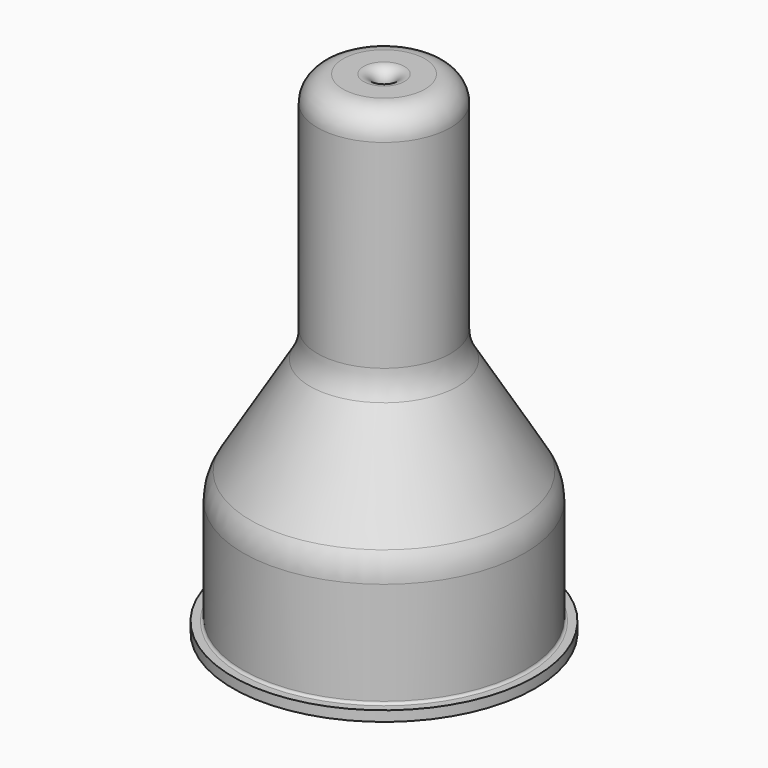
from build123d import *


with BuildPart() as f2:
    # F0 (on Front) → F2 (revolve)
    with BuildSketch(Plane.XZ):
        with BuildLine():
            Line((22.5, 24), (22.5, 3.75))
            ThreePointArc((22.5, 3.75), (23.59835, 1.09835), (26.25, 0))
            Line((26.25, 0), (27.5, 0))
            Line((27.5, 0), (29.5, 0))
            Line((29.5, 0), (29.5, 2))
            Line((29.5, 2), (28, 2))
            ThreePointArc((28, 2), (27.646447, 2.146447), (27.5, 2.5))
            Line((27.5, 2.5), (27.5, 22.606845))
            ThreePointArc((27.5, 22.606845), (27.133056, 25.290913), (26.059155, 27.778001))
            Line((26.059155, 27.778001), (14.440845, 47.008309))
            ThreePointArc((14.440845, 47.008309), (13.366944, 49.495397), (13, 52.179465))
            Line((13, 52.179465), (13, 91))
            ThreePointArc((13, 91), (11.535534, 94.535534), (8, 96))
            Line((8, 96), (4, 96))
            ThreePointArc((4, 96), (2.232233, 95.267767), (1.5, 93.5))
            Line((1.5, 93.5), (1.5, 92))
            ThreePointArc((1.5, 92), (1.792893, 91.292893), (2.5, 91))
            Line((2.5, 91), (5.5, 91))
            ThreePointArc((5.5, 91), (7.267767, 90.267767), (8, 88.5))
            Line((8, 88.5), (8, 50.78631))
            ThreePointArc((8, 50.78631), (8.366944, 48.102242), (9.440845, 45.615154))
            Line((9.440845, 45.615154), (22.5, 24))
        make_face()
    revolve(axis=Axis((0, 0, 13.469479), (0, 0, 1)))


solid = f2.part
